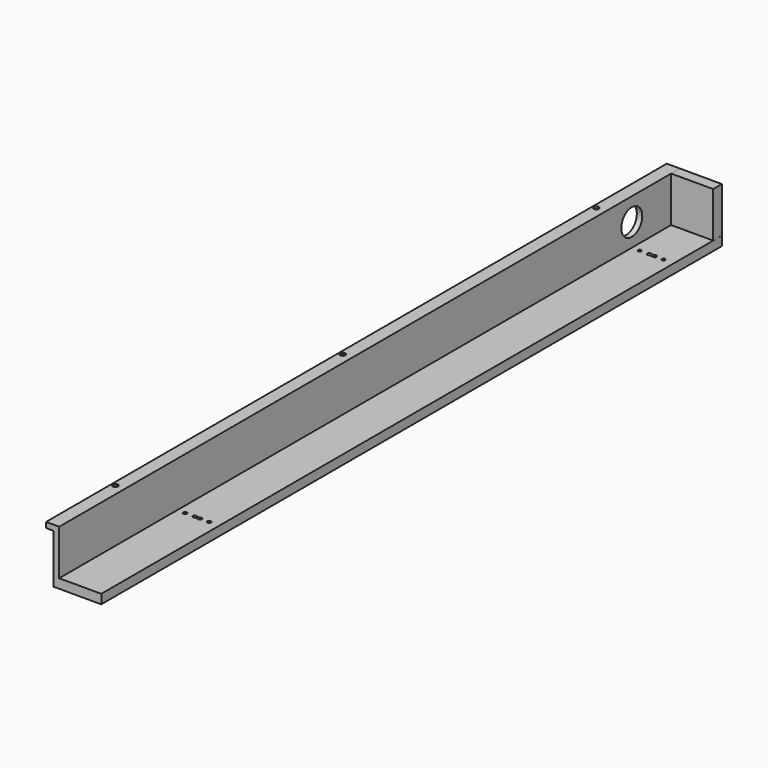
from build123d import *

# Parameters (mm, degrees)
PAD_DEPTH           = 710
HOLE_D              = 3.4
HOLE_CBORE_D        = 4.8
HOLE_CBORE_DEPTH    = 1.5
HOLE003_D           = 3.4
HOLE003_CBORE_D     = 4.8
HOLE003_CBORE_DEPTH = 1.5
SKETCH006_R         = 12
POCKET_DEPTH        = 12.001
SKETCH008_R         = 1.5
POCKET001_DEPTH     = 8.501
HOLE004_D           = 3.3
HOLE004_DEPTH       = 10
HOLE004_CBORE_D     = 5.5
HOLE004_CBORE_DEPTH = 1
HOLE004_TIPS_R      = 1.65
POCKET003_DEPTH     = 47.001
SKETCH013_W         = 38.5
SKETCH013_H         = 41.5
PAD001_DEPTH        = 10
SKETCH014_R         = 1.65
HOLE005_DEPTH       = 15
HOLE005_TIPS_R      = 1.65
SKETCH015_R         = 1.7
HOLE006_DEPTH       = 50.007254
SKETCH016_R         = 7
POCKET005_DEPTH     = 3
POCKET006_DEPTH     = 47.007254
SKETCH018_R         = 1.7
HOLE007_DEPTH       = 47.007254
SKETCH012_R         = 1.7
HOLE008_DEPTH       = 8.501
SKETCH019_R         = 7
POCKET007_DEPTH     = 3


with BuildPart() as part:
    # Sketch → Pad (new body)
    with BuildSketch(Plane.XZ):
        Polygon((0.045854, -0.006254), (0.045854, 44.993746), (-6.954146, 44.993746), (-6.954146, 49.993746), (5.045854, 49.993746), (5.045854, 8.493746), (43.545854, 8.493746), (43.545854, -0.006254), align=None)
    extrude(amount=PAD_DEPTH)

    # Hole (through all)
    with Locations(Plane(origin=(0, 0, 49.993746), x_dir=(-1, 0, 0), z_dir=(0, 0, 1))):
        with Locations((3.5, 85), (3.5, 635)):
            CounterBoreHole(HOLE_D / 2, HOLE_CBORE_D / 2, HOLE_CBORE_DEPTH)

    # Hole003 (through all)
    with Locations(Plane(origin=(0, 0, 49.993746), x_dir=(-1, 0, 0), z_dir=(0, 0, 1))):
        with Locations((3.5, 375)):
            CounterBoreHole(HOLE003_D / 2, HOLE003_CBORE_D / 2, HOLE003_CBORE_DEPTH)

    # Sketch006 → Pocket (cut, through all)
    with BuildSketch(Plane(origin=(5.045854, 0, 0), x_dir=(0, 0, 1), z_dir=(1, 0, 0))):
        with Locations((29.25, 55)):
            Circle(SKETCH006_R)
    extrude(amount=-POCKET_DEPTH, mode=Mode.SUBTRACT)

    # Sketch008 → Pocket001 (cut, through all)
    with BuildSketch(Plane(origin=(0, 0, 8.493746), x_dir=(-1, 0, 0), z_dir=(0, 0, 1))):
        with Locations((-34.25, 55)):
            Circle(SKETCH008_R)
        with Locations((-12.25, 55)):
            Circle(SKETCH008_R)
    extrude(amount=-POCKET001_DEPTH, mode=Mode.SUBTRACT)

    # Hole004
    with Locations(Plane(origin=(0, 0, -0.006254), x_dir=(1, 0, 0), z_dir=(0, 0, -1))):
        with Locations((12.25, 5), (34.25, 5)):
            CounterBoreHole(HOLE004_D / 2, HOLE004_CBORE_D / 2, HOLE004_CBORE_DEPTH, depth=HOLE004_DEPTH)

    # Hole004 tips → Hole004 tip 1 section 0
    with BuildSketch(Plane(origin=(0, 0, 9.993746), x_dir=(1, 0, 0), z_dir=(0, 0, -1)), mode=Mode.PRIVATE) as hole004_tip_1_s0:
        with Locations((12.25, 5)):
            Circle(HOLE004_TIPS_R)
    loft([hole004_tip_1_s0.sketch, Vertex(12.25, -5, 10.985166)], mode=Mode.SUBTRACT)

    # Hole004 tips → Hole004 tip 2 section 0
    with BuildSketch(Plane(origin=(0, 0, 9.993746), x_dir=(1, 0, 0), z_dir=(0, 0, -1)), mode=Mode.PRIVATE) as hole004_tip_2_s0:
        with Locations((34.25, 5)):
            Circle(HOLE004_TIPS_R)
    loft([hole004_tip_2_s0.sketch, Vertex(34.25, -5, 10.985166)], mode=Mode.SUBTRACT)

    # Sketch011 → Pocket003 (cut, through all)
    with BuildSketch(Plane(origin=(0, 0, 2.993746), x_dir=(1, 0, 0), z_dir=(0, 0, -1))):
        with BuildLine():
            ThreePointArc((21, 56.2), (19.8, 55), (21, 53.8))
            Line((21, 53.8), (26, 53.8))
            ThreePointArc((26, 53.8), (27.2, 55), (26, 56.2))
            Line((26, 56.2), (21, 56.2))
        make_face()
    extrude(amount=-POCKET003_DEPTH, mode=Mode.SUBTRACT)

    # Sketch013 → Pad001 (join)
    with BuildSketch(Plane(origin=(0, 0, 0), x_dir=(1, 0, 0), z_dir=(0, 1, 0))):
        with Locations((24.25, -29.25)):
            Rectangle(SKETCH013_W, SKETCH013_H)
    extrude(amount=-PAD001_DEPTH)

    # Sketch014 → Hole005 (cut)
    with BuildSketch(Plane(origin=(0, 0, 8.5), x_dir=(1, 0, 0), z_dir=(0, 0, -1))):
        with Locations((12.25, 5)):
            Circle(SKETCH014_R)
        with Locations((34.25, 5)):
            Circle(SKETCH014_R)
    extrude(amount=-HOLE005_DEPTH, mode=Mode.SUBTRACT)

    # Hole005 tips → Hole005 tip 1 section 0
    with BuildSketch(Plane(origin=(0, 0, 23.5), x_dir=(1, 0, 0), z_dir=(0, 0, -1)), mode=Mode.PRIVATE) as hole005_tip_1_s0:
        with Locations((12.25, 5)):
            Circle(HOLE005_TIPS_R)
    loft([hole005_tip_1_s0.sketch, Vertex(12.25, -5, 24.49142)], mode=Mode.SUBTRACT)

    # Hole005 tips → Hole005 tip 2 section 0
    with BuildSketch(Plane(origin=(0, 0, 23.5), x_dir=(1, 0, 0), z_dir=(0, 0, -1)), mode=Mode.PRIVATE) as hole005_tip_2_s0:
        with Locations((34.25, 5)):
            Circle(HOLE005_TIPS_R)
    loft([hole005_tip_2_s0.sketch, Vertex(34.25, -5, 24.49142)], mode=Mode.SUBTRACT)

    # Sketch015 → Hole006 (cut, through all)
    with BuildSketch(Plane(origin=(0, 0, -0.006254), x_dir=(1, 0, 0), z_dir=(0, 0, -1))):
        with Locations((12.25, 575)):
            Circle(SKETCH015_R)
        with Locations((34.25, 575)):
            Circle(SKETCH015_R)
    extrude(amount=-HOLE006_DEPTH, mode=Mode.SUBTRACT)

    # Sketch016 → Pocket005 (cut)
    with BuildSketch(Plane(origin=(0, 0, -0.006254), x_dir=(1, 0, 0), z_dir=(0, 0, -1))):
        with Locations((23.5, 575)):
            Circle(SKETCH016_R)
    extrude(amount=-POCKET005_DEPTH, mode=Mode.SUBTRACT)

    # Sketch017 → Pocket006 (cut, through all)
    with BuildSketch(Plane(origin=(0, 0, 2.993746), x_dir=(1, 0, 0), z_dir=(0, 0, -1))):
        with BuildLine():
            ThreePointArc((21, 576.2), (19.8, 575), (21, 573.8))
            Line((21, 573.8), (26, 573.8))
            ThreePointArc((26, 573.8), (27.2, 575), (26, 576.2))
            Line((26, 576.2), (21, 576.2))
        make_face()
    extrude(amount=-POCKET006_DEPTH, mode=Mode.SUBTRACT)

    # Sketch018 → Hole007 (cut, through all)
    with BuildSketch(Plane(origin=(0, 0, 2.993746), x_dir=(1, 0, 0), z_dir=(0, 0, -1))):
        with Locations((21, 575)):
            Circle(SKETCH018_R)
        with Locations((26, 575)):
            Circle(SKETCH018_R)
    extrude(amount=-HOLE007_DEPTH, mode=Mode.SUBTRACT)

    # Sketch012 (on Face15 of Pocket003) → Hole008 (cut, through all)
    with BuildSketch(Plane(origin=(0, 0, 8.493746), x_dir=(-1, 0, 0), z_dir=(0, 0, 1))):
        with Locations((-21, 55)):
            Circle(SKETCH012_R)
        with Locations((-26, 55)):
            Circle(SKETCH012_R)
    extrude(amount=-HOLE008_DEPTH, mode=Mode.SUBTRACT)

    # Sketch019 → Pocket007 (cut)
    with BuildSketch(Plane(origin=(0, 0, -0.006254), x_dir=(1, 0, 0), z_dir=(0, 0, -1))):
        with Locations((23.5, 55)):
            Circle(SKETCH019_R)
    extrude(amount=-POCKET007_DEPTH, mode=Mode.SUBTRACT)


solid = part.part
